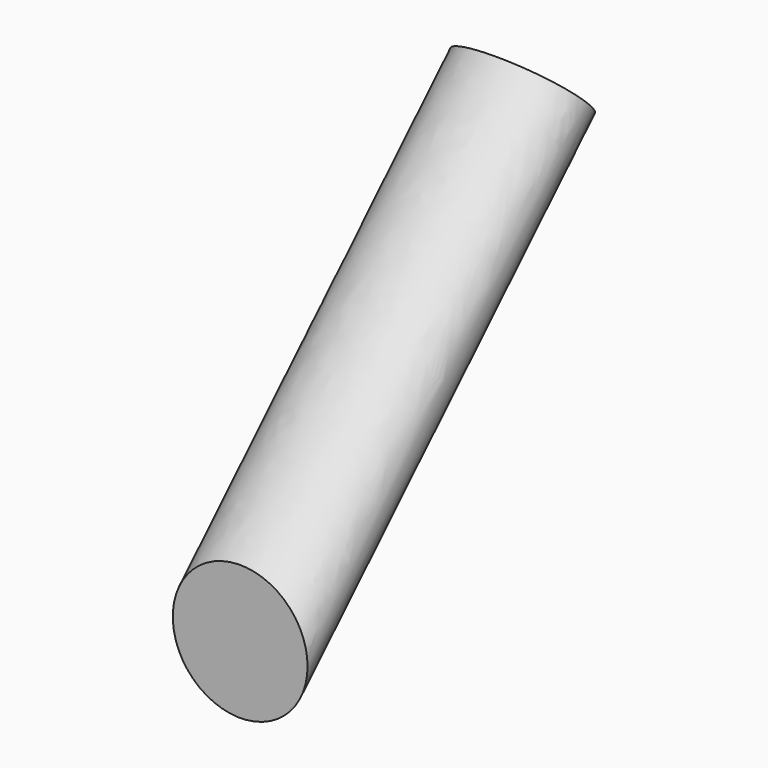
from build123d import *

# Parameters (mm, degrees)
F1_R     = 25
F4_DEPTH = 49
F5_DEPTH = 92


with BuildPart() as f2:
    # F2: sweep along a path in F0
    with BuildLine(Plane.YZ) as f2_path:
        Line((0, 0), (142.008164, 140.832104))
    # F1 (on Front) → F2 (sweep)
    with BuildSketch(Plane.XZ):
        Circle(F1_R)
    sweep(path=f2_path.line)

    # F3 (on Right) → F4 (cut)
    with BuildSketch(Plane.YZ):
        Polygon((114.125399, 147.46314), (143.182307, 117.288671), (148.33723, 180.407882), align=None)
    extrude(amount=-F4_DEPTH, mode=Mode.SUBTRACT)

    # F3 (on Right) → F5 (cut)
    with BuildSketch(Plane.YZ):
        Polygon((114.125399, 147.46314), (143.182307, 117.288671), (148.33723, 180.407882), align=None)
    extrude(amount=F5_DEPTH, mode=Mode.SUBTRACT)


solid = f2.part
